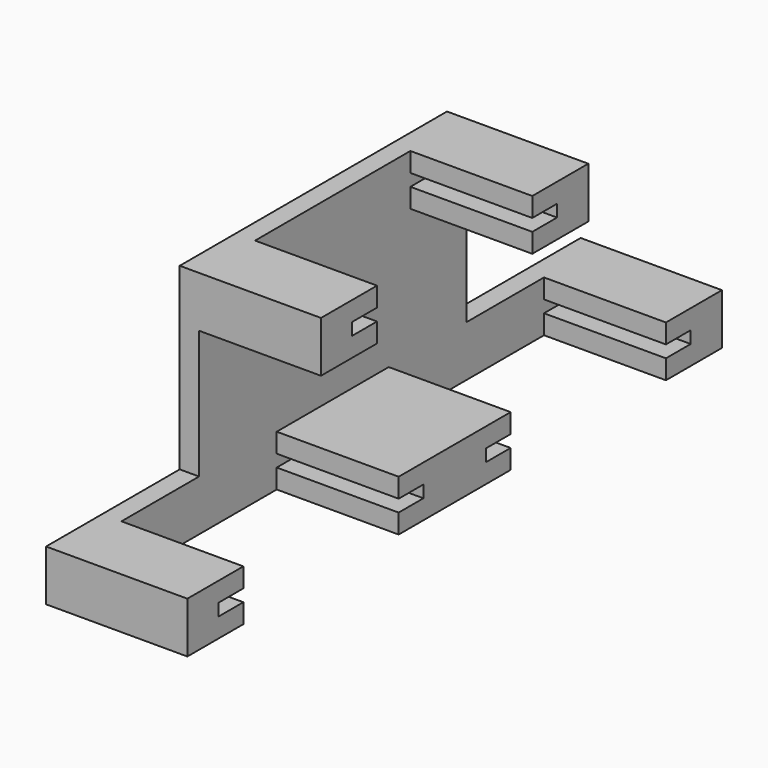
from build123d import *

# Parameters (mm, degrees)
F2_DEPTH = 10
F5_DEPTH = 1.5875


with BuildPart() as f2:
    # F1 (on Right) → F2 (new body)
    with BuildSketch(Plane.YZ):
        Polygon((-10.5, 14.2), (-10.5, 15.2), (-7.96, 15.2), (-7.96, 16.7875), (-13.7, 16.7875), (-13.7, 12.6125), (-7.96, 12.6125), (-7.96, 14.2), align=None)
        Polygon((-24.2, -0.5), (-24.2, 0.5), (-21.66, 0.5), (-21.66, 2.0875), (-27.4, 2.0875), (-27.4, -2.0875), (-21.66, -2.0875), (-21.66, -0.5), align=None)
        Polygon((-5.74, 0.5), (-3.2, 0.5), (-3.2, -0.5), (-5.74, -0.5), (-5.74, -2.0875), (0, -2.0875), (0, 2.0875), (-5.74, 2.0875), align=None)
    extrude(amount=F2_DEPTH)



with BuildPart() as f3_1:
    # F3: instance of F2
    add(f2.part.mirror(Plane.XZ))


with BuildPart() as f2_1:
    add(f2.part)

    add(f3_1.part)  # F5 merges F3_1
    # F4 (on face) → F5 (join)
    with BuildSketch(Plane(origin=(0, 0, 0), x_dir=(0, -1, 0), z_dir=(-1, 0, 0))):
        Polygon((13.7, 16.7875), (-13.7, 16.7875), (-13.7, 2.0875), (-27.4, 2.0875), (-27.4, -2.0875), (27.4, -2.0875), (27.4, 2.0875), (13.7, 2.0875), align=None)
    extrude(amount=F5_DEPTH)


solid = f2_1.part
